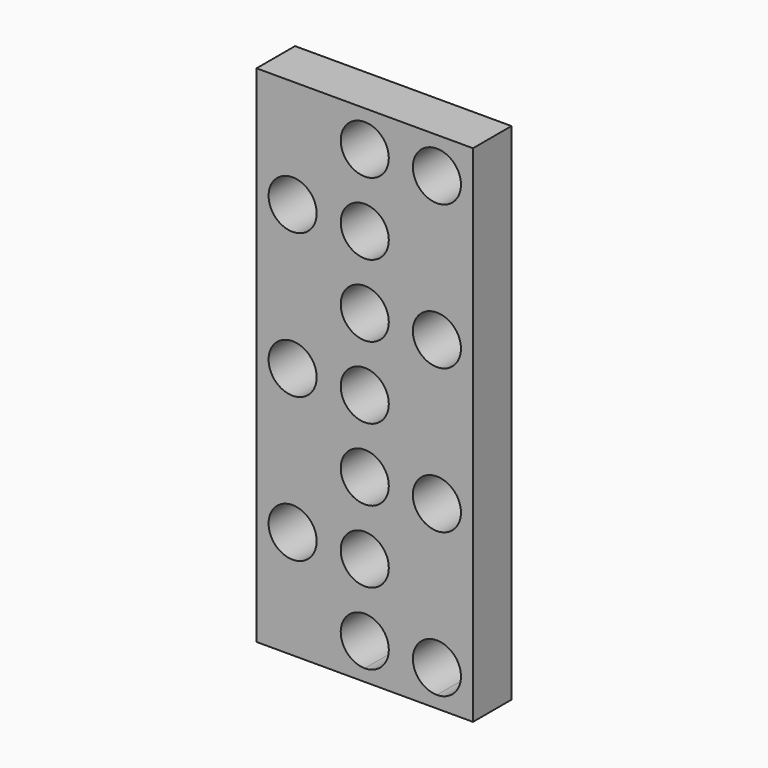
from build123d import *

# Parameters (mm, degrees)
F0_W     = 114.3
F0_H     = 266.7
F2_DEPTH = 25.4
F1_R     = 12.7
F3_DEPTH = 25.4


with BuildPart() as f2:
    # F0 (on Front) → F2 (new body)
    with BuildSketch(Plane.XZ):
        with Locations((-57.15, 133.35)):
            Rectangle(F0_W, F0_H)
    extrude(amount=F2_DEPTH)

    # F1 (on Front) → F3 (cut)
    with BuildSketch(Plane.XZ):
        with BuildLine():
            ThreePointArc((-44.45, 19.05), (-66.130256, 28.030256), (-57.15, 6.35))
            ThreePointArc((-57.15, 6.35), (-48.169744, 10.069744), (-44.45, 19.05))
        make_face()
        with BuildLine():
            ThreePointArc((-6.35, 19.05), (-28.030256, 28.030256), (-19.05, 6.35))
            ThreePointArc((-19.05, 6.35), (-10.069744, 10.069744), (-6.35, 19.05))
        make_face()
        with Locations((-57.15, 57.15)):
            Circle(F1_R)
        with Locations((-95.25, 57.15)):
            Circle(F1_R)
        with Locations((-19.05, 95.25)):
            Circle(F1_R)
        with Locations((-57.15, 95.25)):
            Circle(F1_R)
        with Locations((-95.25, 133.35)):
            Circle(F1_R)
        with Locations((-57.15, 133.35)):
            Circle(F1_R)
        with Locations((-95.25, 209.55)):
            Circle(F1_R)
        with Locations((-57.15, 209.55)):
            Circle(F1_R)
        with Locations((-19.05, 171.45)):
            Circle(F1_R)
        with Locations((-57.15, 171.45)):
            Circle(F1_R)
        with Locations((-19.05, 247.65)):
            Circle(F1_R)
        with Locations((-57.15, 247.65)):
            Circle(F1_R)
    extrude(amount=F3_DEPTH, mode=Mode.SUBTRACT)


solid = f2.part
